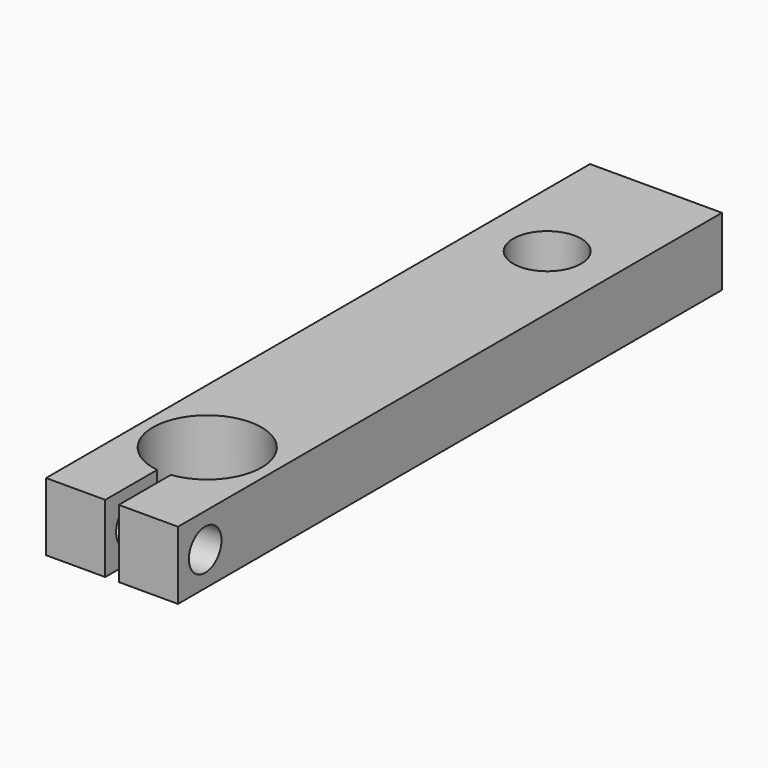
from build123d import *

# Parameters (mm, degrees)
SKETCH048_W     = 9.7
SKETCH048_H     = 50
SKETCH048_R     = 4
SKETCH048_R_2   = 2.5
PAD028_DEPTH    = 5
SKETCH049_W     = 1
SKETCH049_H     = 5.04
POCKET023_DEPTH = 5.001
SKETCH050_R     = 1.5
POCKET024_DEPTH = 9.701


with BuildPart() as part:
    # Sketch048 → Pad028 (new body)
    with BuildSketch(Plane.XY):
        Rectangle(SKETCH048_W, SKETCH048_H)
        with Locations((0, -16.25)):
            Circle(SKETCH048_R, mode=Mode.SUBTRACT)
        with Locations((0, 15)):
            Circle(SKETCH048_R_2, mode=Mode.SUBTRACT)
    extrude(amount=PAD028_DEPTH)

    # Sketch049 (on Face8 of Pad028) → Pocket023 (cut, through all)
    with BuildSketch(Plane.XY.offset(5)):
        with Locations((0, -22.48)):
            Rectangle(SKETCH049_W, SKETCH049_H)
    extrude(amount=-POCKET023_DEPTH, mode=Mode.SUBTRACT)

    # Sketch050 (on Face3 of Pocket023) → Pocket024 (cut, through all)
    with BuildSketch(Plane.YZ.offset(4.85)):
        with Locations((-22.5, 2.5)):
            Circle(SKETCH050_R)
    extrude(amount=-POCKET024_DEPTH, mode=Mode.SUBTRACT)


solid = part.part
